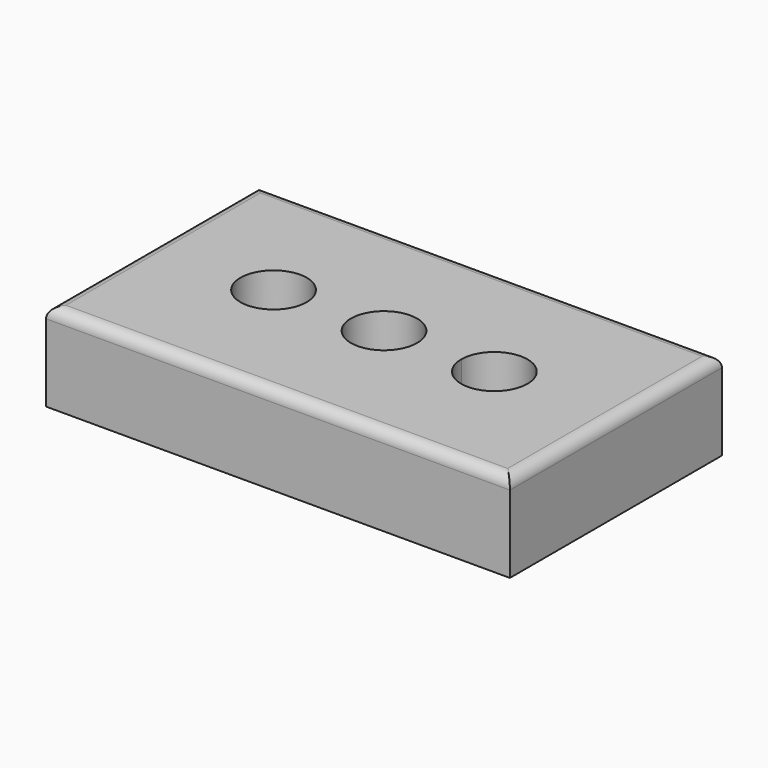
from build123d import *

# Parameters (mm, degrees)
F0_W     = 266.7
F0_H     = 152.4
F0_R     = 19.05
F1_DEPTH = 50.8
F2_R     = 6.35


with BuildPart() as f1:
    # F0 (on Top) → F1 (new body)
    with BuildSketch(Plane.XY):
        Rectangle(F0_W, F0_H)
        with BuildLine():
            ThreePointArc((82.549939, -0.048241), (63.475818, -19.098226), (44.45, 0))
            ThreePointArc((44.45, 0), (63.52406, 19.001743), (82.549939, -0.048241))
        make_face(mode=Mode.SUBTRACT)
        with Locations((-63.5, 0)):
            Circle(F0_R, mode=Mode.SUBTRACT)
        with BuildLine():
            ThreePointArc((-19.05, 0), (0, 19.05), (19.05, 0))
            ThreePointArc((19.05, 0), (0, -19.05), (-19.05, 0))
        make_face(mode=Mode.SUBTRACT)
    extrude(amount=F1_DEPTH)

    # F2
    f2_edges = [f1.edges().sort_by_distance(p)[0] for p in [
        (0, -76.2, 50.8),
        (133.35, 0, 50.8),
        (0, 76.2, 50.8),
        (-133.35, 0, 50.8),
    ]]
    fillet(f2_edges, radius=F2_R)


solid = f1.part
